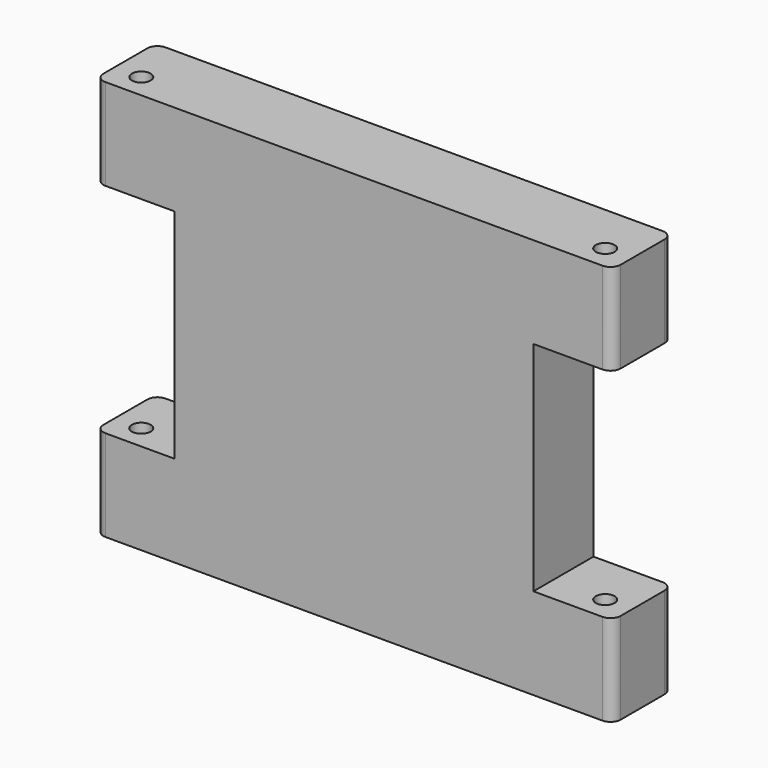
from build123d import *

# Parameters (mm, degrees)
F1_DEPTH = 10.0203
F2_R     = 0.4699
F3_DEPTH = 25.4
F4_W     = 3.9624
F4_H     = 10.8966
F5_DEPTH = 25.4


with BuildPart() as f1:
    # F0 (on Top) → F1 (new body, symmetric)
    with BuildSketch(Plane.XY):
        with BuildLine():
            ThreePointArc((-12.9413, -1.3716), (-12.79251, -1.73081), (-12.4333, -1.8796))
            Line((-12.4333, -1.8796), (12.4333, -1.8796))
            ThreePointArc((12.4333, -1.8796), (12.79251, -1.73081), (12.9413, -1.3716))
            Line((12.9413, -1.3716), (12.9413, 1.3716))
            ThreePointArc((12.9413, 1.3716), (12.79251, 1.73081), (12.4333, 1.8796))
            Line((12.4333, 1.8796), (-12.4333, 1.8796))
            ThreePointArc((-12.4333, 1.8796), (-12.79251, 1.73081), (-12.9413, 1.3716))
            Line((-12.9413, 1.3716), (-12.9413, -1.3716))
        make_face()
    extrude(amount=F1_DEPTH, both=True)

    # F2 (on face) → F3 (cut)
    with BuildSketch(Plane.XY.offset(10.0203)):
        with Locations((11.6078, -0.6731)):
            Circle(F2_R)
        with Locations((-11.6078, -0.6731)):
            Circle(F2_R)
    extrude(amount=-F3_DEPTH, mode=Mode.SUBTRACT)

    # F4 (on face) → F5 (cut)
    with BuildSketch(Plane(origin=(0, 1.8796, 0), x_dir=(-1, 0, 0), z_dir=(0, 1, 0))):
        with Locations((-10.9601, 0)):
            Rectangle(F4_W, F4_H)
        with Locations((10.9601, 0)):
            Rectangle(F4_W, F4_H)
    extrude(amount=-F5_DEPTH, mode=Mode.SUBTRACT)


solid = f1.part
